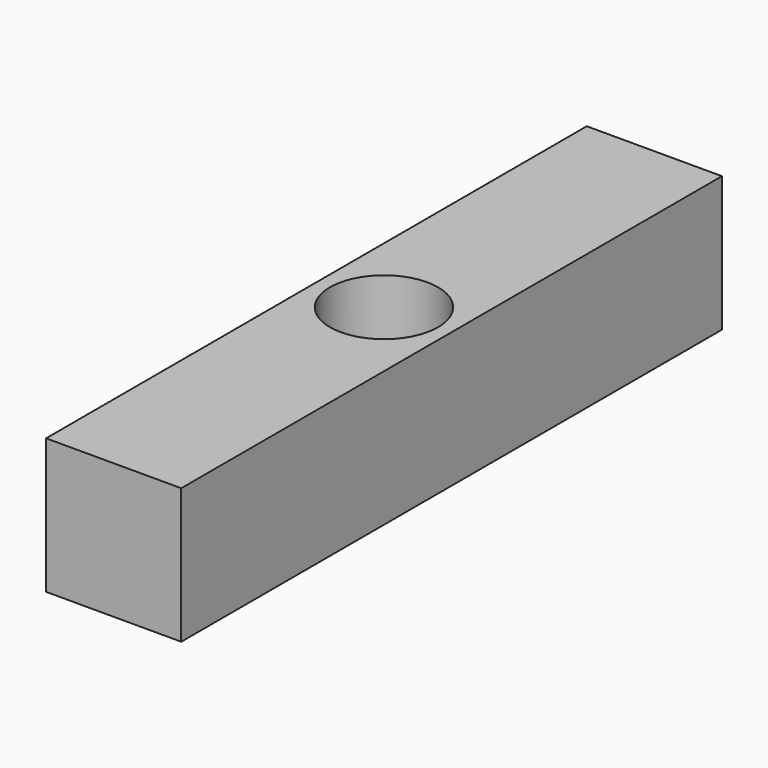
from build123d import *

# Parameters (mm, degrees)
SKETCH_W  = 4
SKETCH_H  = 20
SKETCH_R  = 1.6
PAD_DEPTH = 4


with BuildPart() as part:
    # Sketch → Pad (new body)
    with BuildSketch(Plane.XY):
        with Locations((2, 10)):
            Rectangle(SKETCH_W, SKETCH_H)
        with Locations((2, 10)):
            Circle(SKETCH_R, mode=Mode.SUBTRACT)
    extrude(amount=PAD_DEPTH)


solid = part.part
